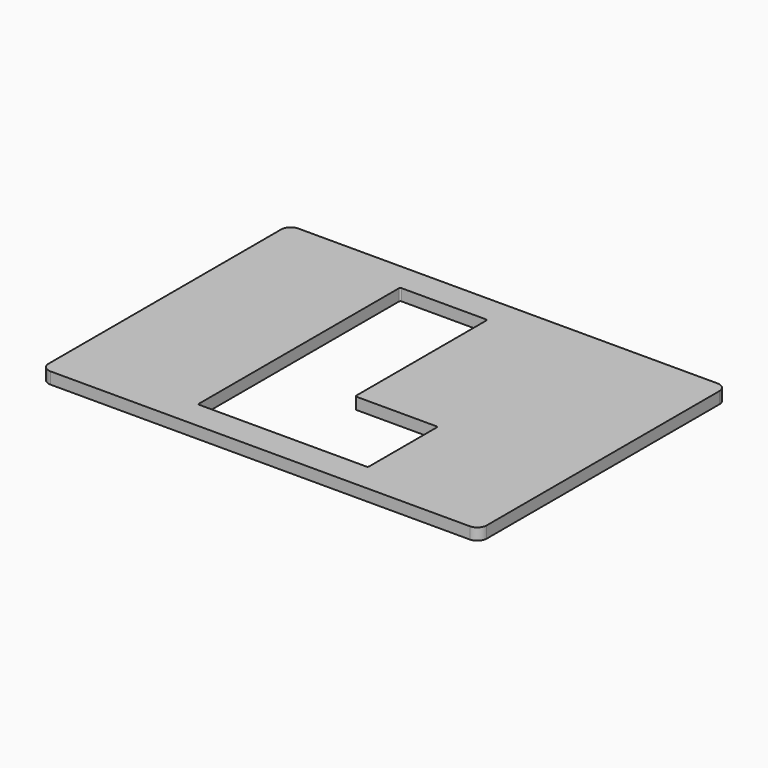
from build123d import *

# Parameters (mm, degrees)
F0_W     = 238.125
F0_H     = 168.275
F1_DEPTH = 6.35
F3_DEPTH = 25.4
F4_DEPTH = 6.351
F6_DEPTH = 6.351
F7_R     = 5.08


with BuildPart() as f1:
    # F0 (on Top) → F1 (new body)
    with BuildSketch(Plane.XY):
        Rectangle(F0_W, F0_H)
    extrude(amount=F1_DEPTH)

    # F2 (on face) → F3 (cut)
    with BuildSketch(Plane.XY.offset(6.35)):
        Polygon((0, -22.479), (0, 67.437), (-44.958, 67.437), (-44.958, -67.437), (44.958, -67.437), (44.958, -22.479), align=None)
    extrude(amount=-F3_DEPTH, mode=Mode.SUBTRACT)

    # F2 (on face) → F4 (cut, through all)
    with BuildSketch(Plane.XY.offset(6.35)):
        Polygon((0, -22.479), (0, 67.437), (-44.958, 67.437), (-44.958, -67.437), (44.958, -67.437), (44.958, -22.479), align=None)
    extrude(amount=-F4_DEPTH, mode=Mode.SUBTRACT)

    # F5 (on face) → F6 (cut, through all)
    with BuildSketch(Plane.XY.offset(6.35)):
        with BuildLine():
            Line((1.27, -20.4216), (1.27, 67.9196))
            ThreePointArc((1.27, 67.9196), (1.039376, 68.476376), (0.4826, 68.707))
            Line((0.4826, 68.707), (-45.4406, 68.707))
            ThreePointArc((-45.4406, 68.707), (-45.997376, 68.476376), (-46.228, 67.9196))
            Line((-46.228, 67.9196), (-46.228, -67.9196))
            ThreePointArc((-46.228, -67.9196), (-45.997376, -68.476376), (-45.4406, -68.707))
            Line((-45.4406, -68.707), (45.4406, -68.707))
            ThreePointArc((45.4406, -68.707), (45.997376, -68.476376), (46.228, -67.9196))
            Line((46.228, -67.9196), (46.228, -21.9964))
            ThreePointArc((46.228, -21.9964), (45.997376, -21.439624), (45.4406, -21.209))
            Line((45.4406, -21.209), (2.0574, -21.209))
            ThreePointArc((2.0574, -21.209), (1.500624, -20.978376), (1.27, -20.4216))
        make_face()
    extrude(amount=-F6_DEPTH, mode=Mode.SUBTRACT)

    # F7
    f7_edges = [f1.edges().sort_by_distance(p)[0] for p in [
        (-119.0625, -84.1375, 3.175),
        (-119.0625, 84.1375, 3.175),
        (119.0625, -84.1375, 3.175),
        (119.0625, 84.1375, 3.175),
    ]]
    fillet(f7_edges, radius=F7_R)


solid = f1.part
